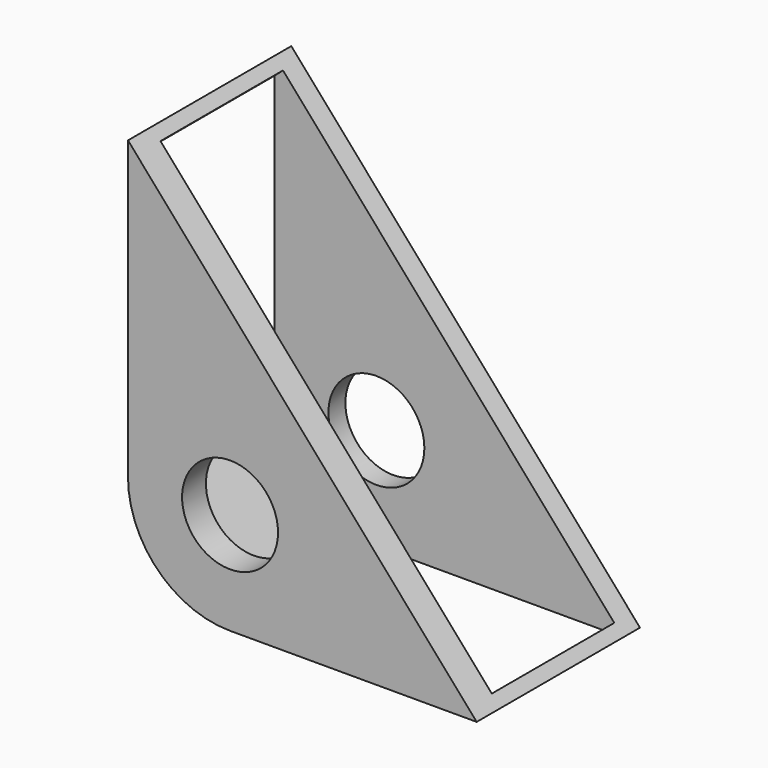
from build123d import *

# Parameters (mm, degrees)
F1_DEPTH = 25.4
F2_R     = 12.7
F3_R     = 5.9718786186
F4_DEPTH = 25.401
F5_W     = 19.05
F5_H     = 62.6034842774
F6_DEPTH = 25.4


with BuildPart() as f1:
    # F0 (on Front) → F1 (new body)
    with BuildSketch(Plane.XZ):
        Polygon((0, 0), (43.3889701962, 0), (0, 49.6006347239), align=None)
    extrude(amount=F1_DEPTH)

    # F2
    f2_edges = [f1.edges().sort_by_distance(p)[0] for p in [
        (0, -12.7, 0),
    ]]
    fillet(f2_edges, radius=F2_R)

    # F3 (on face) → F4 (cut, through all)
    with BuildSketch(Plane.XZ.offset(25.4)):
        with Locations((12.7, 12.7)):
            Circle(F3_R)
    extrude(amount=-F4_DEPTH, mode=Mode.SUBTRACT)

    # F5 (on face) → F6 (cut)
    with BuildSketch(Plane(origin=(24.5799735671, 0, 21.5017357432), x_dir=(0, 1, 0), z_dir=(0.7526638098, 0, 0.6584050344))):
        with Locations((-12.1681662276, 4.3852257229)):
            Rectangle(F5_W, F5_H)
    extrude(amount=-F6_DEPTH, mode=Mode.SUBTRACT)


solid = f1.part
